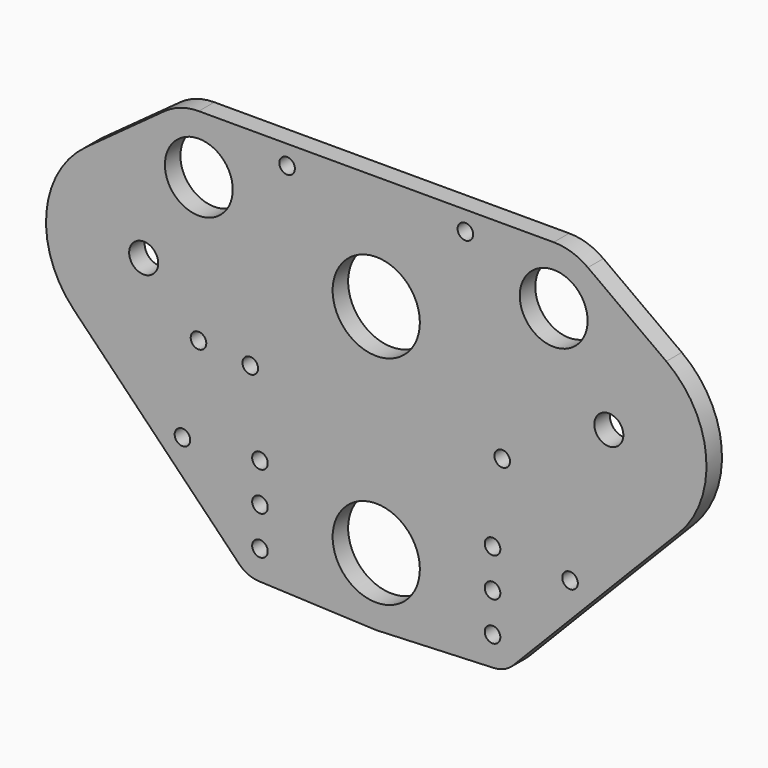
from build123d import *

# Parameters (mm, degrees)
F0_R     = 2.5527
F0_R_2   = 14.2875
F0_R_3   = 4.7625
F0_R_4   = 11.1125
F1_DEPTH = 6.35


with BuildPart() as f1:
    # F0 (on Front) → F1 (new body)
    with BuildSketch(Plane.XZ):
        with BuildLine():
            Line((-99.147001, 36.428507), (-44.929465, -19.339581))
            ThreePointArc((-44.929465, -19.339581), (-41.990137, -21.394392), (-38.499317, -22.216626))
            Line((-38.499317, -22.216626), (-0.931741, -23.792961))
            ThreePointArc((-0.931741, -23.792961), (0, -23.8125), (0.931741, -23.792961))
            Line((0.931741, -23.792961), (38.499317, -22.216626))
            ThreePointArc((38.499317, -22.216626), (41.990137, -21.394392), (44.929465, -19.339581))
            Line((44.929465, -19.339581), (99.147001, 36.428507))
            ThreePointArc((99.147001, 36.428507), (108.088235, 61.457145), (95.037742, 84.610178))
            Line((95.037742, 84.610178), (69.349048, 103.313963))
            ThreePointArc((69.349048, 103.313963), (64.032071, 106.028196), (58.136106, 106.963559))
            Line((58.136106, 106.963559), (-58.136106, 106.963559))
            ThreePointArc((-58.136106, 106.963559), (-64.032071, 106.028196), (-69.349048, 103.313963))
            Line((-69.349048, 103.313963), (-95.037742, 84.610178))
            ThreePointArc((-95.037742, 84.610178), (-108.088235, 61.457145), (-99.147001, 36.428507))
        make_face()
        with Locations((-38.1, -12.7)):
            Circle(F0_R, mode=Mode.SUBTRACT)
        with Locations((-38.1, 0)):
            Circle(F0_R, mode=Mode.SUBTRACT)
        with Locations((0, -1.5875)):
            Circle(F0_R_2, mode=Mode.SUBTRACT)
        with Locations((-63.5, 11.149014)):
            Circle(F0_R, mode=Mode.SUBTRACT)
        with Locations((-58.239488, 40.776988)):
            Circle(F0_R, mode=Mode.SUBTRACT)
        with Locations((-38.1, 12.7)):
            Circle(F0_R, mode=Mode.SUBTRACT)
        with Locations((-41.275, 39.0525)):
            Circle(F0_R, mode=Mode.SUBTRACT)
        with Locations((38.1, -12.7)):
            Circle(F0_R, mode=Mode.SUBTRACT)
        with Locations((38.1, 0)):
            Circle(F0_R, mode=Mode.SUBTRACT)
        with Locations((38.1, 12.7)):
            Circle(F0_R, mode=Mode.SUBTRACT)
        with Locations((41.275, 39.0525)):
            Circle(F0_R, mode=Mode.SUBTRACT)
        with Locations((63.5, 11.149014)):
            Circle(F0_R, mode=Mode.SUBTRACT)
        with Locations((-76.2, 58.7375)):
            Circle(F0_R_3, mode=Mode.SUBTRACT)
        with Locations((0, 69.5325)):
            Circle(F0_R_2, mode=Mode.SUBTRACT)
        with Locations((-58.136106, 87.913559)):
            Circle(F0_R_4, mode=Mode.SUBTRACT)
        with Locations((-29.21, 100.613559)):
            Circle(F0_R, mode=Mode.SUBTRACT)
        with Locations((76.2, 58.7375)):
            Circle(F0_R_3, mode=Mode.SUBTRACT)
        with Locations((29.21, 100.613559)):
            Circle(F0_R, mode=Mode.SUBTRACT)
        with Locations((58.136106, 87.913559)):
            Circle(F0_R_4, mode=Mode.SUBTRACT)
    extrude(amount=F1_DEPTH)


solid = f1.part
